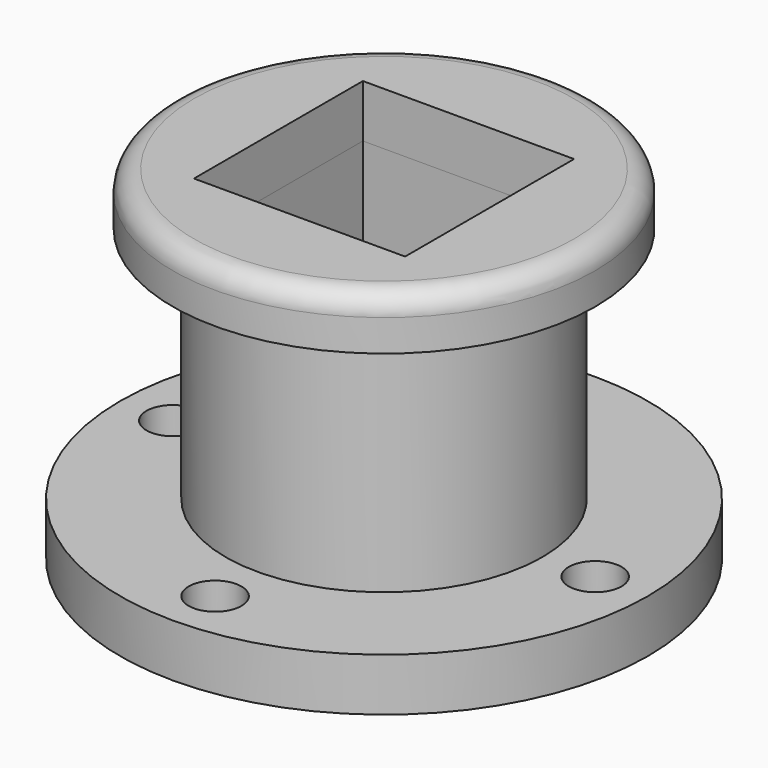
from build123d import *

# Parameters (mm, degrees)
F0_R      = 38.1
F1_DEPTH  = 57.15
F2_R      = 50.8
F2_R_2    = 38.1
F3_DEPTH  = 12.7
F4_W      = 50.8
F4_H      = 50.8
F5_DEPTH  = 114.808
F6_W      = 50.8
F6_H      = 50.8
F7_DEPTH  = 73.406
F8_R      = 5.08
F9_R      = 63.5
F9_R_2    = 38.1
F10_DEPTH = 12.7
F11_R     = 38.1
F11_W     = 50.8
F11_H     = 50.8
F12_DEPTH = 12.7
F13_R     = 6.35
F14_DEPTH = 25.4


with BuildPart() as f1:
    # F0 (on Top) → F1 (new body)
    with BuildSketch(Plane.XY):
        Circle(F0_R)
    extrude(amount=F1_DEPTH)


with BuildPart() as f3:
    # F2 (on face) → F3 (new body)
    with BuildSketch(Plane.XY.offset(57.15)):
        Circle(F2_R)
        Circle(F2_R_2, mode=Mode.SUBTRACT)
        Circle(F2_R_2)
    extrude(amount=F3_DEPTH)


with BuildPart() as f5_tool:
    # F4 (on face) → F5 (new body)
    with BuildSketch(Plane.XY.offset(69.85)):
        Rectangle(F4_W, F4_H)
    extrude(amount=-F5_DEPTH)


with BuildPart() as f1_1:
    add(f1.part)

    # F5: cut by f5_tool
    add(f5_tool.part, mode=Mode.SUBTRACT)

    # F6 (on face) → F7 (cut)
    with BuildSketch(Plane(origin=(0, 0, 0), x_dir=(1, 0, 0), z_dir=(0, 0, -1))):
        Rectangle(F6_W, F6_H)
    extrude(amount=-F7_DEPTH, mode=Mode.SUBTRACT)


with BuildPart() as f3_1:
    add(f3.part)

    # F5: cut by f5_tool
    add(f5_tool.part, mode=Mode.SUBTRACT)

    # F8
    f8_edges = [f3_1.edges().sort_by_distance(p)[0] for p in [
        (-50.8, 0, 69.85),
    ]]
    fillet(f8_edges, radius=F8_R)


with BuildPart() as f10:
    # F9 (on face) → F10 (new body)
    with BuildSketch(Plane(origin=(0, 0, 0), x_dir=(1, 0, 0), z_dir=(0, 0, -1))):
        Circle(F9_R)
        Circle(F9_R_2, mode=Mode.SUBTRACT)
    extrude(amount=F10_DEPTH)

    # F13 (on face) → F14 (cut)
    with BuildSketch(Plane(origin=(0, 0, -12.7), x_dir=(1, 0, 0), z_dir=(0, 0, -1))):
        with Locations((0, 50.8)):
            Circle(F13_R)
        with Locations((-50.8, 0)):
            Circle(F13_R)
        with Locations((0, -50.8)):
            Circle(F13_R)
        with Locations((50.8, 0)):
            Circle(F13_R)
    extrude(amount=-F14_DEPTH, mode=Mode.SUBTRACT)


with BuildPart() as f12:
    # F11 (on face) → F12 (new body)
    with BuildSketch(Plane(origin=(0, 0, 0), x_dir=(1, 0, 0), z_dir=(0, 0, -1))):
        Circle(F11_R)
        Rectangle(F11_W, F11_H, mode=Mode.SUBTRACT)
    extrude(amount=F12_DEPTH)


solid = Compound([f1_1.part, f3_1.part, f10.part, f12.part])
